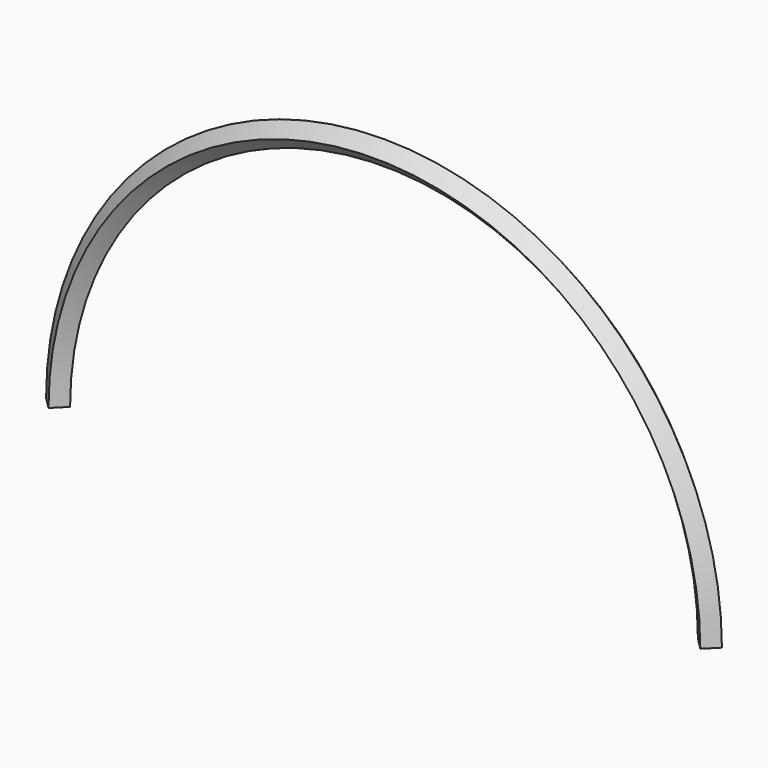
from build123d import *


with BuildPart() as f2:
    # F2: sweep along a path in F0
    with BuildLine(Plane.XZ) as f2_path:
        ThreePointArc((609.6, 0), (0, 609.6), (-609.6, 0))
    # F1 (on Top) → F2 (sweep)
    with BuildSketch(Plane.XY):
        Polygon((-587.14936, 0), (-609.6, 22.45064), (-632.05064, 0), (-609.6, -22.45064), align=None)
        Polygon((-591.639488, 0), (-609.6, -17.960512), (-627.560512, 0), (-609.6, 17.960512), align=None, mode=Mode.SUBTRACT)
    sweep(path=f2_path.line)


solid = f2.part
